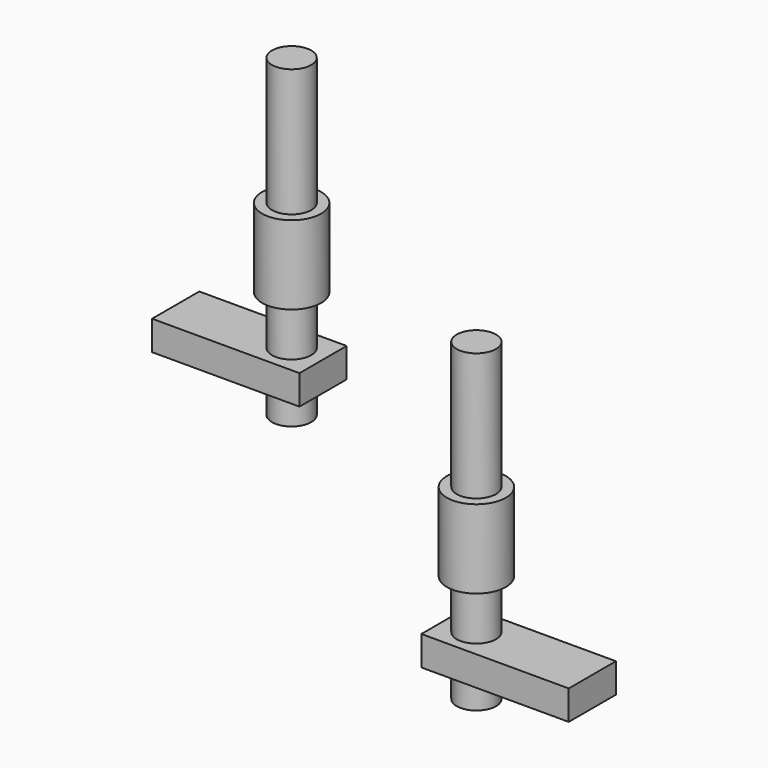
from build123d import *

# Parameters (mm, degrees)
CYLINDER054_R             = 3
CYLINDER054_DEPTH         = 8
CYLINDER053_R             = 3
CYLINDER053_DEPTH         = 8
BOX016_W                  = 15
BOX016_H                  = 6
BOX016_DEPTH              = 3
CYLINDER052_R             = 1.5
CYLINDER052_DEPTH         = 25
CYLINDER051_R             = 2
CYLINDER051_DEPTH         = 32
FUSION038_PLACEMENT_ANGLE = 180
BOX015_W                  = 15
BOX015_H                  = 6
BOX015_DEPTH              = 3
CYLINDER049_R             = 1.5
CYLINDER049_DEPTH         = 25
CYLINDER048_R             = 2
CYLINDER048_DEPTH         = 32


with BuildPart() as cylinder054:
    # Cylinder054 → Cylinder054 (new body)
    with BuildSketch(Plane(origin=(0, 22, 18), x_dir=(1, 0, 0), z_dir=(0, 0, 1))):
        Circle(CYLINDER054_R)
    extrude(amount=CYLINDER054_DEPTH)


with BuildPart() as cylinder053:
    # Cylinder053 → Cylinder053 (new body)
    with BuildSketch(Plane(origin=(42, -7, 18), x_dir=(1, 0, 0), z_dir=(0, 0, 1))):
        Circle(CYLINDER053_R)
    extrude(amount=CYLINDER053_DEPTH)


with BuildPart() as cube013:
    # Box016 → Box016 (new body)
    with BuildSketch(Plane(origin=(58.2, 67, 3), x_dir=(1, 0, 0), z_dir=(0, 0, 1))):
        with Locations((7.5, 3)):
            Rectangle(BOX016_W, BOX016_H)
    extrude(amount=BOX016_DEPTH)


with BuildPart() as cylinder052:
    # Cylinder052 → Cylinder052 (new body)
    with BuildSketch(Plane(origin=(70, 70, 7), x_dir=(1, 0, 0), z_dir=(0, 0, 1))):
        Circle(CYLINDER052_R)
    extrude(amount=CYLINDER052_DEPTH)


with BuildPart() as fusion038:
    # Cylinder051 → Cylinder051 (new body)
    with BuildSketch(Plane(origin=(70, 70, 0), x_dir=(1, 0, 0), z_dir=(0, 0, 1))):
        Circle(CYLINDER051_R)
    extrude(amount=CYLINDER051_DEPTH)

    # Fusion038: union Cube013, Cylinder052
    add(cube013.part)
    add(cylinder052.part)


with BuildPart() as fusion038_1:
    # Fusion038 placement: moved
    add(fusion038.part.moved(Location((112, 63, 7))).rotate(Axis((112, 63, 7), (0, 0, 1)), FUSION038_PLACEMENT_ANGLE))


with BuildPart() as cube012:
    # Box015 → Box015 (new body)
    with BuildSketch(Plane(origin=(58.2, 67, 3), x_dir=(1, 0, 0), z_dir=(0, 0, 1))):
        with Locations((7.5, 3)):
            Rectangle(BOX015_W, BOX015_H)
    extrude(amount=BOX015_DEPTH)


with BuildPart() as cylinder049:
    # Cylinder049 → Cylinder049 (new body)
    with BuildSketch(Plane(origin=(70, 70, 7), x_dir=(1, 0, 0), z_dir=(0, 0, 1))):
        Circle(CYLINDER049_R)
    extrude(amount=CYLINDER049_DEPTH)


with BuildPart() as fanductbohrung_obsolete:
    # Cylinder048 → Cylinder048 (new body)
    with BuildSketch(Plane(origin=(70, 70, 0), x_dir=(1, 0, 0), z_dir=(0, 0, 1))):
        Circle(CYLINDER048_R)
    extrude(amount=CYLINDER048_DEPTH)

    # Fusion037: union Cube012, Cylinder049
    add(cube012.part)
    add(cylinder049.part)


with BuildPart() as fanductbohrung_obsolete_1:
    # Fusion037 placement: moved
    add(fanductbohrung_obsolete.part.moved(Location((-70, -48, 7))))

    # Fusion039: union Cylinder054, Cylinder053, Fusion038
    add(cylinder054.part)
    add(cylinder053.part)
    add(fusion038_1.part)


solid = fanductbohrung_obsolete_1.part
